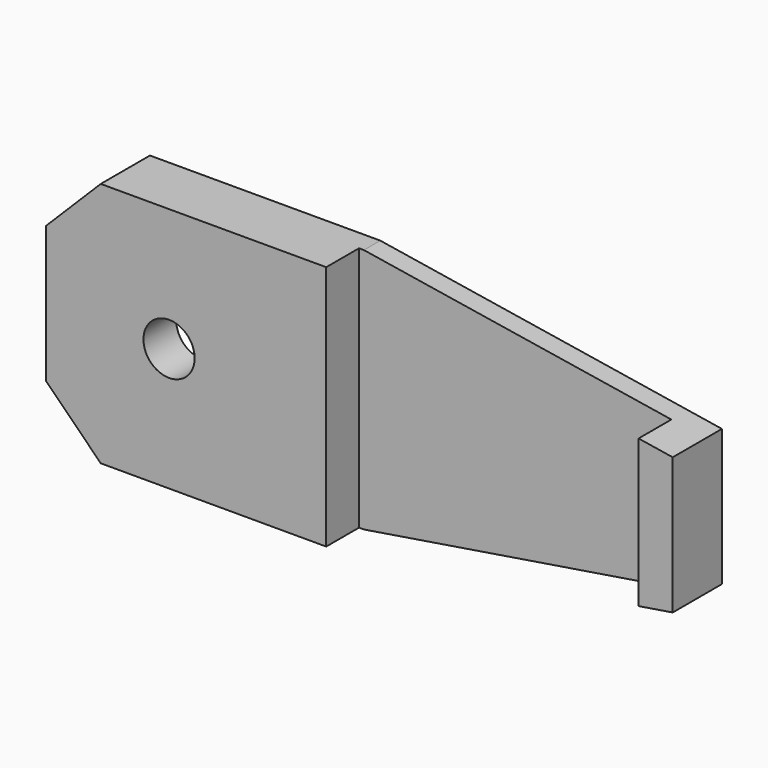
from build123d import *

# Parameters (mm, degrees)
F1_DEPTH  = 22.86
F2_SIZE2  = 31.75
F2_SIZE   = 5.08
F3_SIZE   = 5.08
F5_DEPTH  = 3.81
F6_SIZE   = 1.27
F7_R      = 2.38125
F8_DEPTH  = 25.4
F9_R      = 6.0325
F9_R_2    = 2.38125
F10_DEPTH = 3.175


with BuildPart() as f1:
    # F0 (on Top) → F1 (new body)
    with BuildSketch(Plane.XY):
        Polygon((-6.5924515948, 3.175), (-6.5924515948, 0), (19.4425484052, 0), (19.4425484052, 3.81), (48.4711198338, 3.81), (48.4711198338, 0), (51.6461198338, 0), (51.6461198338, 6.985), (16.2675484052, 6.985), (16.2675484052, 3.175), align=None)
    extrude(amount=F1_DEPTH)

    # F2
    f2_edges = [f1.edges().sort_by_distance(p)[0] for p in [
        (51.64612, 3.4925, 22.86),
        (51.64612, 3.4925, 0),
    ]]
    f2_side = f1.faces().sort_by_distance((51.64612, 3.4925, 11.43))[0]
    chamfer(f2_edges, length=F2_SIZE, length2=F2_SIZE2, reference=f2_side)

    # F3
    f3_edges = [f1.edges().sort_by_distance(p)[0] for p in [
        (-6.592452, 1.5875, 0),
        (-6.592452, 1.5875, 22.86),
    ]]
    chamfer(f3_edges, length=F3_SIZE)

    # F4 (on face) → F5 (join, through all)
    with BuildSketch(Plane(origin=(0, 3.175, 0), x_dir=(-1, 0, 0), z_dir=(0, 1, 0))):
        Polygon((1.5124515948, 0), (6.5924515948, 5.08), (6.5924515948, 17.78), (1.5124515948, 22.86), (-16.2675484052, 22.86), (-16.2675484052, 0), align=None)
    extrude(amount=F5_DEPTH)

    # F6
    f6_edges = [f1.edges().sort_by_distance(p)[0] for p in [
        (51.64612, 6.985, 11.43),
        (35.77112, 6.985, 20.32),
        (9.191834, 6.985, 22.86),
        (-4.052452, 6.985, 20.32),
        (-6.592452, 6.985, 11.43),
        (-4.052452, 6.985, 2.54),
        (9.191834, 6.985, 0),
        (35.77112, 6.985, 2.54),
    ]]
    chamfer(f6_edges, length=F6_SIZE)

    # F7 (on face) → F8 (cut)
    with BuildSketch(Plane.XZ):
        with Locations((4.8375484052, 11.43)):
            Circle(F7_R)
    extrude(amount=-F8_DEPTH, mode=Mode.SUBTRACT)

    # F9 (on face) → F10 (cut)
    with BuildSketch(Plane(origin=(0, 6.985, 0), x_dir=(-1, 0, 0), z_dir=(0, 1, 0))):
        with Locations((-4.8375484052, 11.43)):
            Circle(F9_R)
        with Locations((-4.8375484052, 11.43)):
            Circle(F9_R_2, mode=Mode.SUBTRACT)
    extrude(amount=-F10_DEPTH, mode=Mode.SUBTRACT)


solid = f1.part
